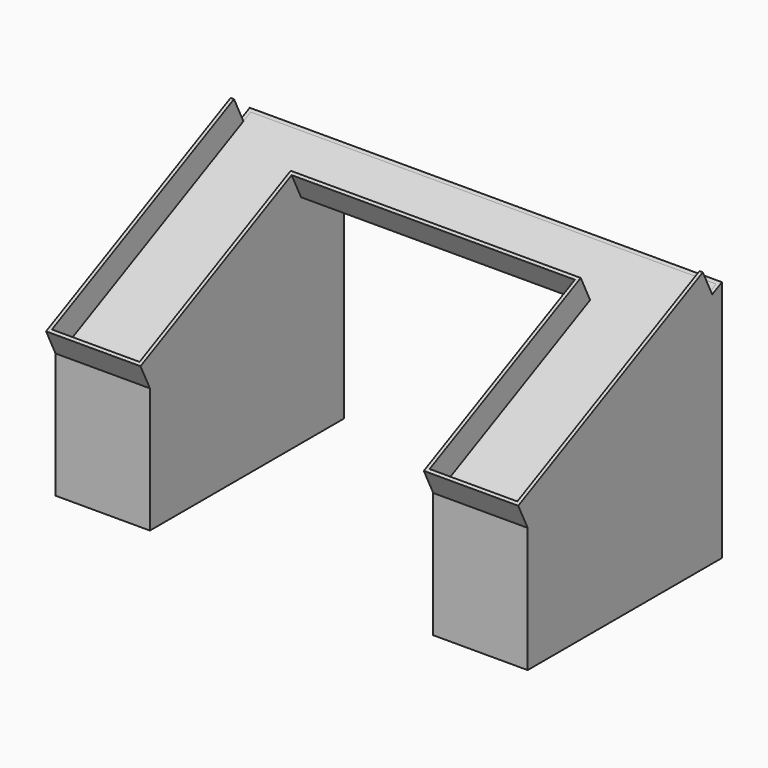
from build123d import *

# Parameters (mm, degrees)
F1_DEPTH = 889
F2_W     = 533.4
F2_H     = 235.7679336681
F2_H_2   = 224.7003448227
F3_DEPTH = 355.6
F5_DEPTH = 50.8
F6_DEPTH = 25.4
F7_DEPTH = 101.601


with BuildPart() as f1:
    # F0 (on Right) → F1 (new body)
    with BuildSketch(Plane.YZ):
        Polygon((0, -235.7679336681), (0, 221.4320663319), (-457.2, 0), (-457.2, -235.7679336681), align=None)
    extrude(amount=F1_DEPTH)

    # F2 (on face) → F3 (cut)
    with BuildSketch(Plane.XZ.offset(457.2)):
        with Locations((444.5, -117.8839668341)):
            Rectangle(F2_W, F2_H)
        with Locations((444.5, 112.3501724113)):
            Rectangle(F2_W, F2_H_2)
    extrude(amount=-F3_DEPTH, mode=Mode.SUBTRACT)

    # F4 (on face) → F5 (join)
    with BuildSketch(Plane(origin=(0, -86.868, 179.3599737288), x_dir=(1, 0, 0), z_dir=(0, -0.4358898944, 0.9))):
        Polygon((889, 96.52), (0, 96.52), (0, -411.48), (177.8, -411.48), (177.8, -16.3688888889), (711.2, -16.3688888889), (711.2, -411.48), (889, -411.48), align=None)
        Polygon((6.35, -405.13), (6.35, 90.17), (882.65, 90.17), (882.65, -405.13), (717.55, -405.13), (717.55, -10.0188888889), (171.45, -10.0188888889), (171.45, -405.13), align=None, mode=Mode.SUBTRACT)
    extrude(amount=F5_DEPTH)

    # F6 (cut): a face of the model
    f6_faces = [f1.faces().sort_by_distance(p)[0] for p in [
        (444.5, -11.0716033166, 244.2920663319),
    ]]
    extrude(f6_faces, amount=-F6_DEPTH, mode=Mode.SUBTRACT)

    # F7 (cut, through all): a face of the model
    f7_faces = [f1.faces().sort_by_distance(p)[0] for p in [
        (444.5, -101.6, -31.7714965939),
    ]]
    extrude(f7_faces, amount=-F7_DEPTH, mode=Mode.SUBTRACT)


solid = f1.part
